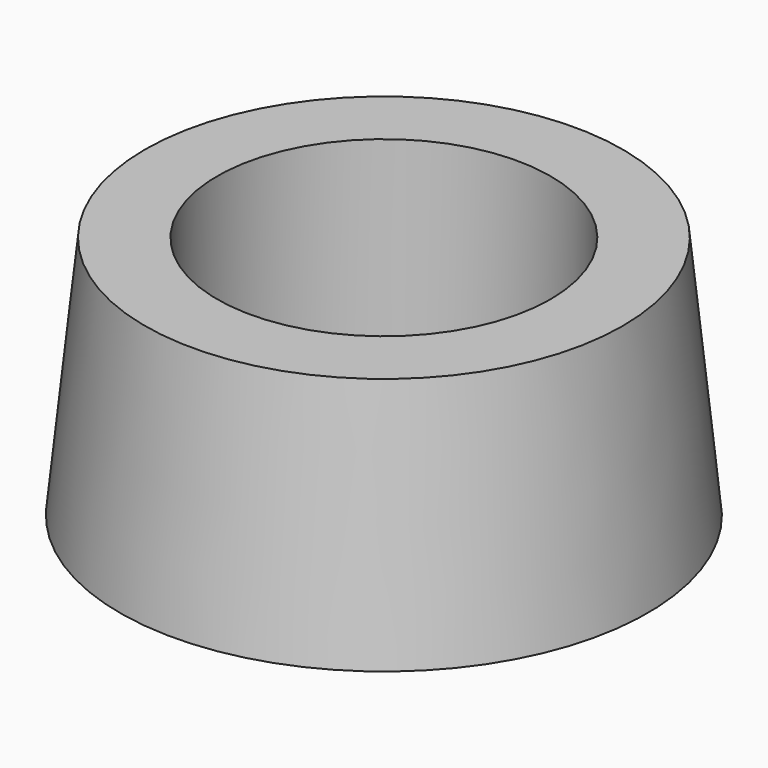
from build123d import *

# Parameters (mm, degrees)
F0_R     = 23.75
F0_R_2   = 15
F1_DEPTH = 22


with BuildPart() as f1:
    # F0 (on Top) → F1 (new body)
    with BuildSketch(Plane.XY):
        Circle(F0_R)
        Circle(F0_R_2, mode=Mode.SUBTRACT)
    extrude(amount=F1_DEPTH)

    # F2 (on Front) → F3 (revolve, cut)
    with BuildSketch(Plane.XZ):
        Polygon((-23.75, 28.316489), (-23.75, 0), (-20.847789, 28.316489), align=None)
    revolve(axis=Axis((0, 0, 17.466369), (0, 0, 1)), mode=Mode.SUBTRACT)


solid = f1.part
